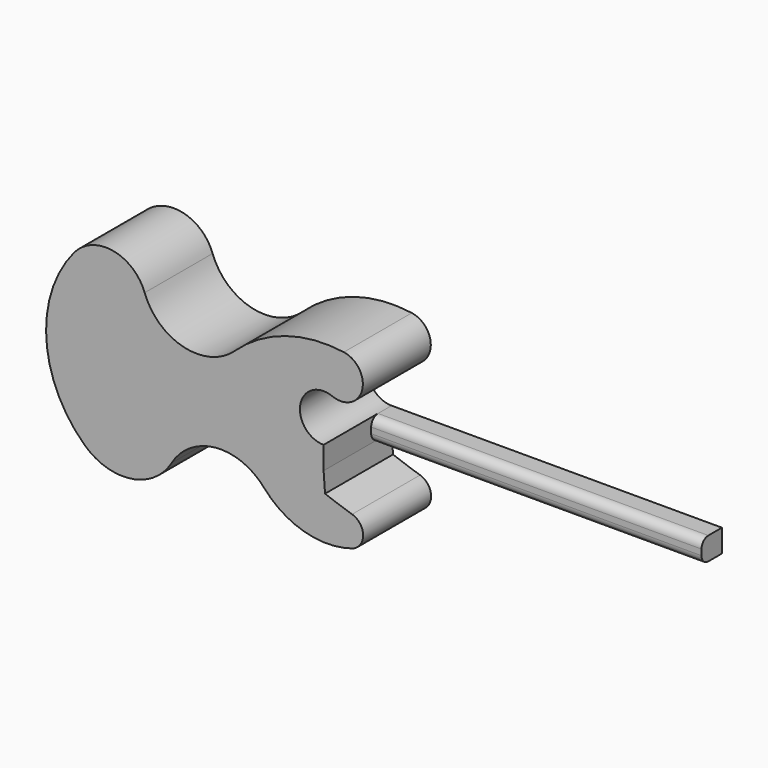
from build123d import *

# Parameters (mm, degrees)
F1_DEPTH = 25.4
F2_DEPTH = 7.62
F3_R     = 2.54


with BuildPart() as f1:
    # F0 (on Front) → F1 (new body)
    with BuildSketch(Plane.XZ):
        with BuildLine():
            Line((0, 3.566337), (0, 10.388896))
            ThreePointArc((0, 10.388896), (-6.948698, 18.80843), (2.63599, 24.034012))
            ThreePointArc((2.63599, 24.034012), (11.508331, 28.468624), (6.047268, 36.748782))
            ThreePointArc((6.047268, 36.748782), (-11.397136, 35.333267), (-26.514942, 26.514944))
            ThreePointArc((-26.514942, 26.514944), (-41.759535, 22.502372), (-53.495057, 33.027384))
            ThreePointArc((-53.495057, 33.027384), (-62.960481, 40.999747), (-74.582964, 36.748782))
            ThreePointArc((-74.582964, 36.748782), (-82.902194, 11.322615), (-71.481802, -12.869826))
            ThreePointArc((-71.481802, -12.869826), (-57.566104, -17.244824), (-45.432035, -9.14843))
            ThreePointArc((-45.432035, -9.14843), (-32.266086, -0.852213), (-17.831687, -6.6675))
            ThreePointArc((-17.831687, -6.6675), (-5.763119, -14.325014), (8.528198, -14.11029))
            ThreePointArc((8.528198, -14.11029), (11.825983, -9.613605), (8.528198, -5.116919))
            ThreePointArc((8.528198, -5.116919), (4.464289, -3.775638), (0.438227, -2.324702))
            Line((0.438227, -2.324702), (0, 3.566337))
        make_face()
    extrude(amount=F1_DEPTH)

    # F0 (on Front) → F2 (join)
    with BuildSketch(Plane.XZ):
        Polygon((91.329239, 10.388896), (0, 10.388896), (0, 3.566337), (98.772034, 3.566337), (98.772034, 10.388896), align=None)
    extrude(amount=F2_DEPTH)

    # F3
    f3_edges = [f1.edges().sort_by_distance(p)[0] for p in [
        (49.386017, -7.62, 3.566337),
        (49.386017, -7.62, 10.388896),
    ]]
    fillet(f3_edges, radius=F3_R)


solid = f1.part
